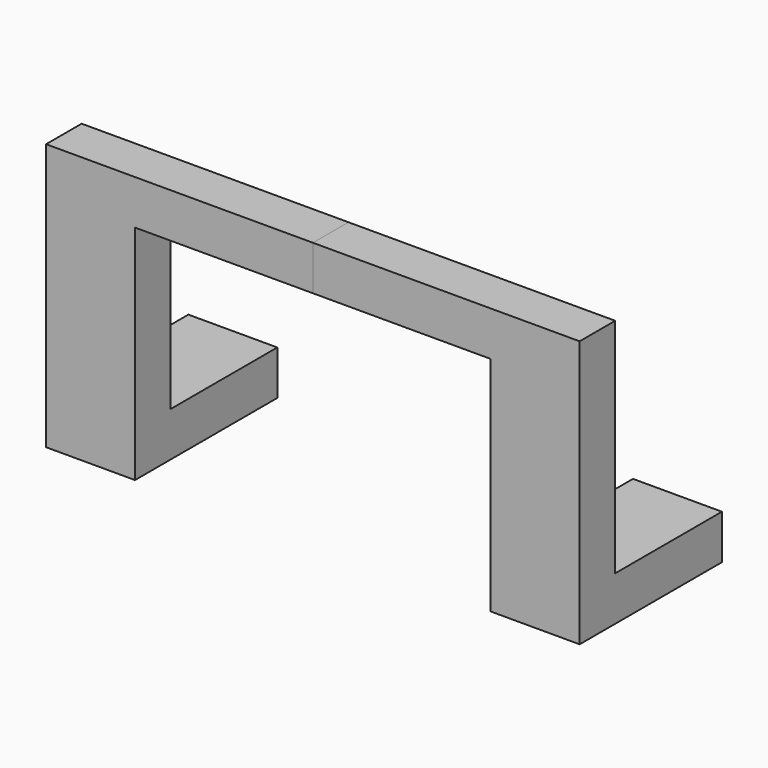
from build123d import *

# Parameters (mm, degrees)
F0_W     = 25.4
F0_H     = 25.4
F1_DEPTH = 127
F2_W     = 127
F2_H     = 25.4
F3_DEPTH = 25.4
F5_DEPTH = 25.4
F6_W     = 25.4
F6_H     = 25.4
F7_DEPTH = 127


with BuildPart() as f1:
    # F0 (on Top) → F1 (new body)
    with BuildSketch(Plane.XY):
        Rectangle(F0_W, F0_H)
    extrude(amount=F1_DEPTH)

    # F2 (on face) → F3 (join)
    with BuildSketch(Plane.XY.offset(127)):
        with Locations((50.8, 0)):
            Rectangle(F2_W, F2_H)
    extrude(amount=F3_DEPTH)

    # F4 (on face) → F5 (join)
    with BuildSketch(Plane(origin=(0, 0, 0), x_dir=(1, 0, 0), z_dir=(0, 0, -1))):
        Polygon((-12.7, -12.7), (-12.7, 12.7), (-38.1, 12.7), (-38.1, -88.9), (12.7, -88.9), (12.7, -12.7), align=None)
    extrude(amount=-F5_DEPTH)

    # F6 (on face) → F7 (join)
    with BuildSketch(Plane.XY.offset(25.4)):
        with Locations((-25.4, 0)):
            Rectangle(F6_W, F6_H)
    extrude(amount=F7_DEPTH)


with BuildPart() as f8_1:
    # F8: instance of F1
    add(f1.part.mirror(Plane(origin=(114.3, 0, 139.7), x_dir=(0, 1, 0), z_dir=(1, 0, 0))))


solid = Compound([f1.part, f8_1.part])
